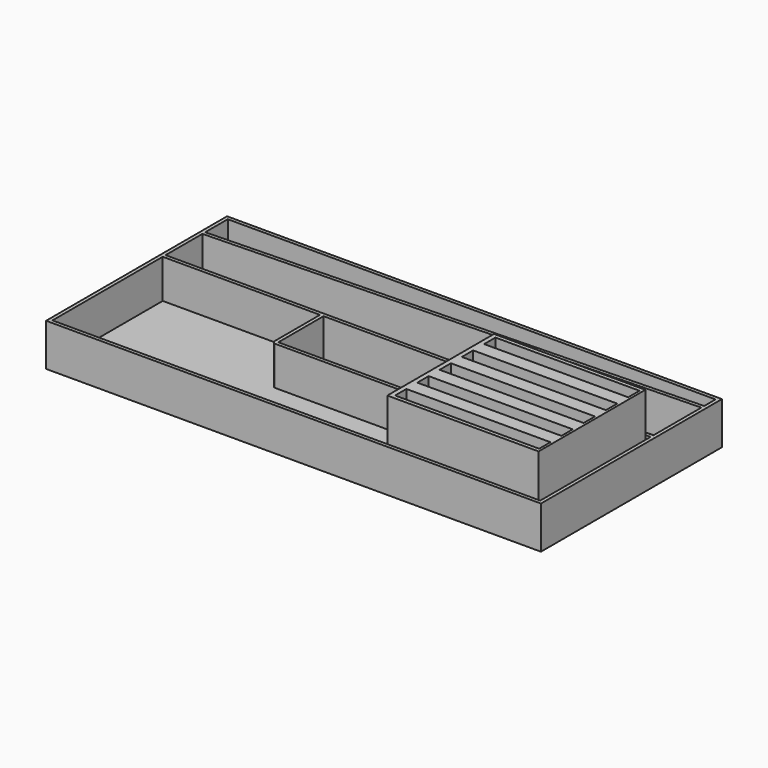
from build123d import *

# Parameters (mm, degrees)
SKETCH_W            = 444.5
SKETCH_H            = 203.2
SKETCH_W_2          = 149.225
SKETCH_H_2          = 50.8
PAD_DEPTH           = 38.1
THICKNESS_T         = -3.175
SKETCH001_W         = 444.5
SKETCH001_H         = 3.175
PAD001_DEPTH        = 38.1
PAD002_DEPTH        = 38.1
SKETCH003_W         = 135.882736
SKETCH003_H         = 119.791347
PAD003_DEPTH        = 76.2
SKETCH004_W         = 129.402947
SKETCH004_H         = 12.7
POCKET_DEPTH        = 76.201
LINEARPATTERN_COUNT = 5
LINEARPATTERN_PITCH = 25.000013


with BuildPart() as bodytray:
    # Sketch → Pad (new body)
    with BuildSketch(Plane.XY):
        Rectangle(SKETCH_W, SKETCH_H)
        Rectangle(SKETCH_W_2, SKETCH_H_2, mode=Mode.SUBTRACT)
    extrude(amount=PAD_DEPTH)

    # Thickness
    thickness_openings = [bodytray.faces().sort_by_distance(p)[0] for p in [
        (0, 96.712562, 38.1),
    ]]
    offset(amount=THICKNESS_T, openings=thickness_openings)

    # Sketch001 → Pad001 (join)
    with BuildSketch(Plane.XY):
        with Locations((0, 26.9875)):
            Rectangle(SKETCH001_W, SKETCH001_H)
    extrude(amount=PAD001_DEPTH)

    # Sketch002 → Pad002 (join)
    with BuildSketch(Plane.XY):
        Polygon((-222.25, 73.025), (-222.25, 69.85), (222.25, 82.55), (222.25, 85.725), align=None)
    extrude(amount=PAD002_DEPTH)


with BuildPart() as bodyplierholder:
    # Sketch003 → Pad003 (new body)
    with BuildSketch(Plane.XY):
        with Locations((149.286034, -38.054498)):
            Rectangle(SKETCH003_W, SKETCH003_H)
    extrude(amount=PAD003_DEPTH)

    # Sketch004 (on Face6 of Pad003) → Pocket (cut, through all)
    with BuildSketch(Plane.XY.offset(76.2)):
        with Locations((150.242259, -88.144416)):
            Rectangle(SKETCH004_W, SKETCH004_H)
    pocket = extrude(amount=-POCKET_DEPTH, mode=Mode.SUBTRACT)

    # LinearPattern: Pocket ×5
    with Locations(*[(0, i * LINEARPATTERN_PITCH, 0) for i in range(1, LINEARPATTERN_COUNT)]):
        add(pocket, mode=Mode.SUBTRACT)


solid = Compound([bodytray.part, bodyplierholder.part])
